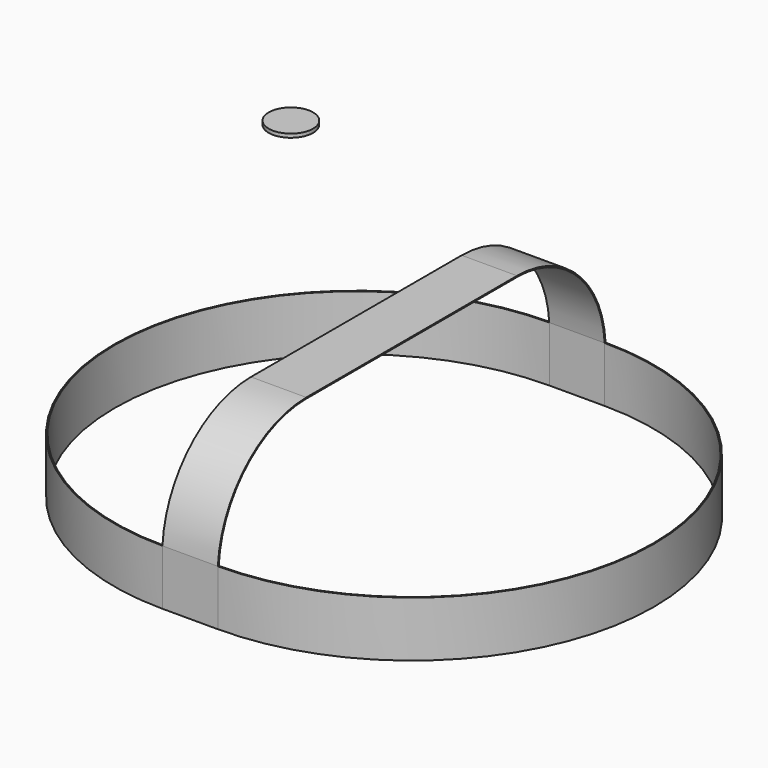
from build123d import *

# Parameters (mm, degrees)
F1_DEPTH = 15
F3_DEPTH = 15
F4_R     = 6
F5_DEPTH = 1


with BuildPart() as f1:
    # F0 (on Right) → F1 (new body)
    with BuildSketch(Plane.YZ):
        with BuildLine():
            ThreePointArc((-65.285047, -27.76493), (-55.954725, -8.025672), (-35.65, 0))
            Line((-35.65, 0), (35.65, 0))
            ThreePointArc((35.65, 0), (55.954725, -8.025672), (65.285047, -27.76493))
            Line((65.285047, -27.76493), (65.585679, -27.76493))
            ThreePointArc((65.585679, -27.76493), (56.166976, -7.813435), (35.65, 0.3))
            Line((35.65, 0.3), (-35.65, 0.3))
            ThreePointArc((-35.65, 0.3), (-56.166976, -7.813435), (-65.585679, -27.76493))
            Line((-65.585679, -27.76493), (-65.285047, -27.76493))
        make_face()
    extrude(amount=F1_DEPTH)

    # F2 (on face) → F3 (join)
    with BuildSketch(Plane(origin=(0, 0, -27.76493), x_dir=(1, 0, 0), z_dir=(0, 0, -1))):
        with BuildLine():
            Line((0, -65.585679), (15, -65.585679))
            ThreePointArc((15, -65.585679), (80.585679, 0), (15, 65.585679))
            Line((15, 65.585679), (0, 65.585679))
            ThreePointArc((0, 65.585679), (-65.585679, 0), (0, -65.585679))
        make_face()
        with BuildLine():
            ThreePointArc((15, 65.285047), (80.285047, 0), (15, -65.285047))
            Line((15, -65.285047), (0, -65.285047))
            ThreePointArc((0, -65.285047), (-65.285047, 0), (0, 65.285047))
            Line((0, 65.285047), (15, 65.285047))
        make_face(mode=Mode.SUBTRACT)
    extrude(amount=F3_DEPTH)


with BuildPart() as f5:
    # F4 (on Top) → F5 (new body)
    with BuildSketch(Plane.XY):
        with Locations((-65.884173, 60.228884)):
            Circle(F4_R)
    extrude(amount=F5_DEPTH)


solid = Compound([f1.part, f5.part])
